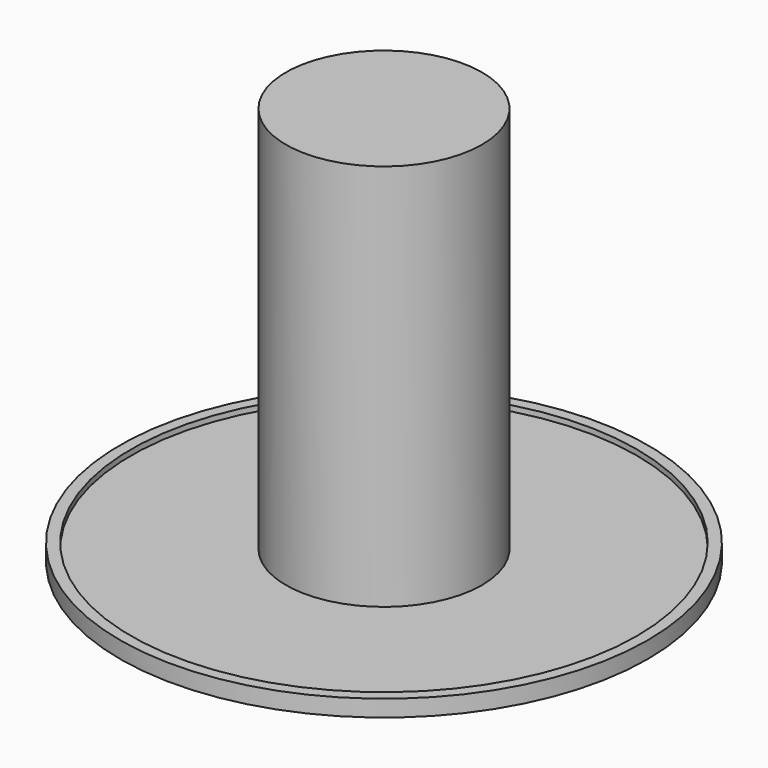
from build123d import *

# Parameters (mm, degrees)
F0_R     = 60.516336
F1_DEPTH = 3.81
F2_T     = -2.54
F3_R     = 22.478017
F4_DEPTH = 88.9


with BuildPart() as f1:
    # F0 (on Top) → F1 (new body)
    with BuildSketch(Plane.XY):
        Circle(F0_R)
    extrude(amount=F1_DEPTH)

    # F2
    f2_openings = [f1.faces().sort_by_distance(p)[0] for p in [
        (0, 0, 3.81),
    ]]
    offset(amount=F2_T, openings=f2_openings)

    # F3 (on face) → F4 (join)
    with BuildSketch(Plane.XY.offset(2.54)):
        Circle(F3_R)
    extrude(amount=F4_DEPTH)


solid = f1.part
